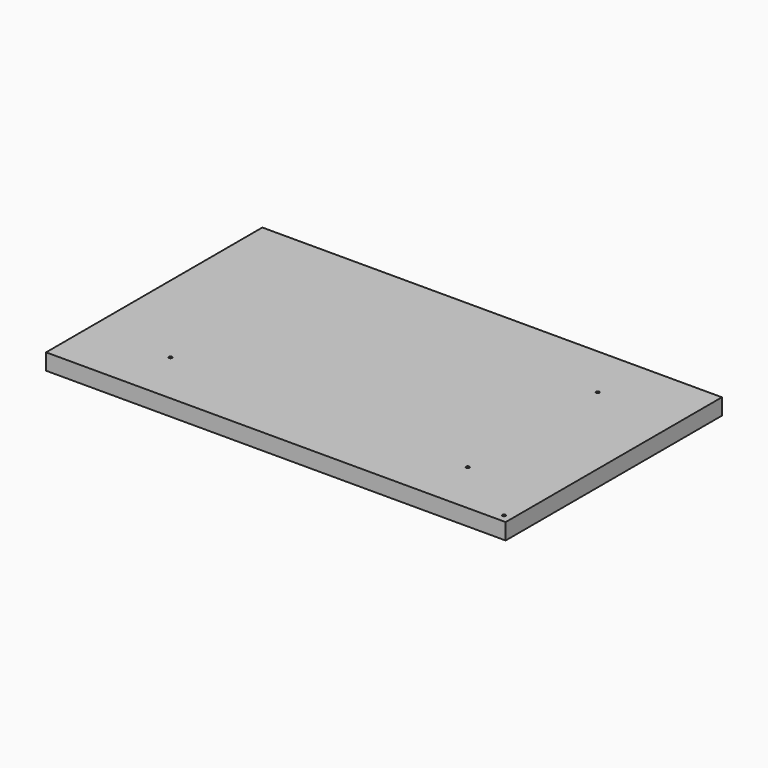
from build123d import *

# Parameters (mm, degrees)
F0_W     = 850
F0_H     = 500
F1_DEPTH = 30
F2_R     = 3
F3_DEPTH = 12
F4_R     = 3
F5_DEPTH = 12
F6_R     = 3
F7_DEPTH = 12
F8_R     = 3
F9_DEPTH = 12


with BuildPart() as f1:
    # F0 (on Top) → F1 (new body)
    with BuildSketch(Plane.XY):
        with Locations((-425, 250)):
            Rectangle(F0_W, F0_H)
    extrude(amount=F1_DEPTH)

    # F2 (on face) → F3 (cut)
    with BuildSketch(Plane.XY.offset(30)):
        with Locations((-150, 100)):
            Circle(F2_R)
    extrude(amount=-F3_DEPTH, mode=Mode.SUBTRACT)

    # F4 (on face) → F5 (cut)
    with BuildSketch(Plane.XY.offset(30)):
        with Locations((-150, 400)):
            Circle(F4_R)
    extrude(amount=-F5_DEPTH, mode=Mode.SUBTRACT)

    # F6 (on face) → F7 (cut)
    with BuildSketch(Plane.XY.offset(30)):
        with Locations((-700, 100)):
            Circle(F6_R)
    extrude(amount=-F7_DEPTH, mode=Mode.SUBTRACT)

    # F8 (on face) → F9 (cut)
    with BuildSketch(Plane.XY.offset(30)):
        with Locations((-15, 15)):
            Circle(F8_R)
    extrude(amount=-F9_DEPTH, mode=Mode.SUBTRACT)


solid = f1.part
